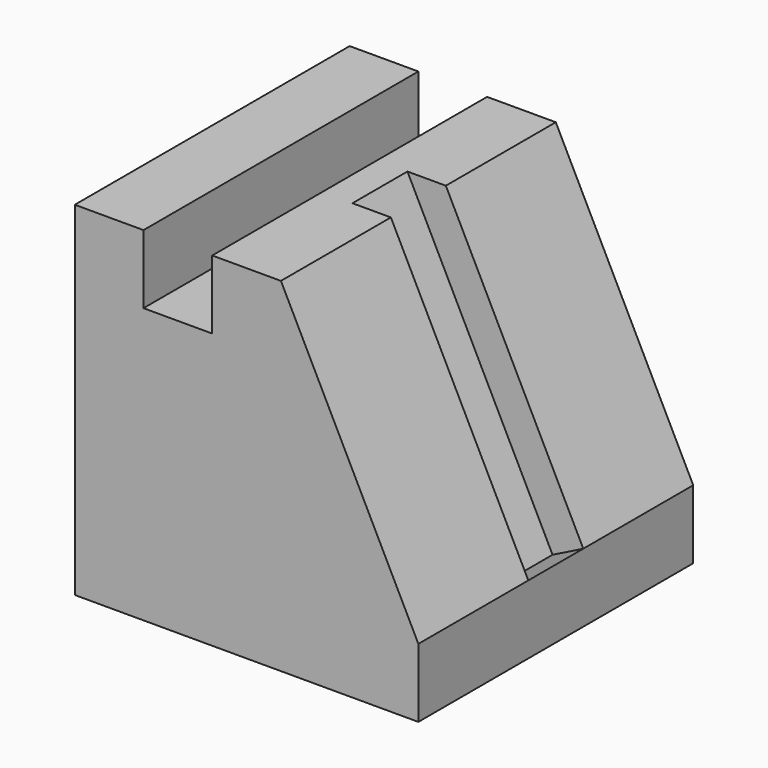
from build123d import *

# Parameters (mm, degrees)
F1_DEPTH = 100
F2_W     = 20
F2_H     = 89.4427191
F3_DEPTH = 10
F4_DEPTH = 10


with BuildPart() as f1:
    # F0 (on Front) → F1 (new body)
    with BuildSketch(Plane.XZ):
        Polygon((20, 0), (0, 0), (0, -100), (100, -100), (100, -80), (60, 0), (40, 0), (40, -20), (20, -20), align=None)
    extrude(amount=F1_DEPTH)

    # F2 (on face) → F3 (cut)
    with BuildSketch(Plane(origin=(48, 0, 24), x_dir=(0, 1, 0), z_dir=(0.894427191, 0, 0.4472135955))):
        with Locations((-50, -71.55417528)):
            Rectangle(F2_W, F2_H)
    extrude(amount=-F3_DEPTH, mode=Mode.SUBTRACT)

    # F4 (cut): a face of the model
    f4_faces = [f1.faces().sort_by_distance(p)[0] for p in [
        (55.527864045, -50, -2.2360679775),
    ]]
    extrude(f4_faces, amount=-F4_DEPTH, mode=Mode.SUBTRACT)


solid = f1.part
